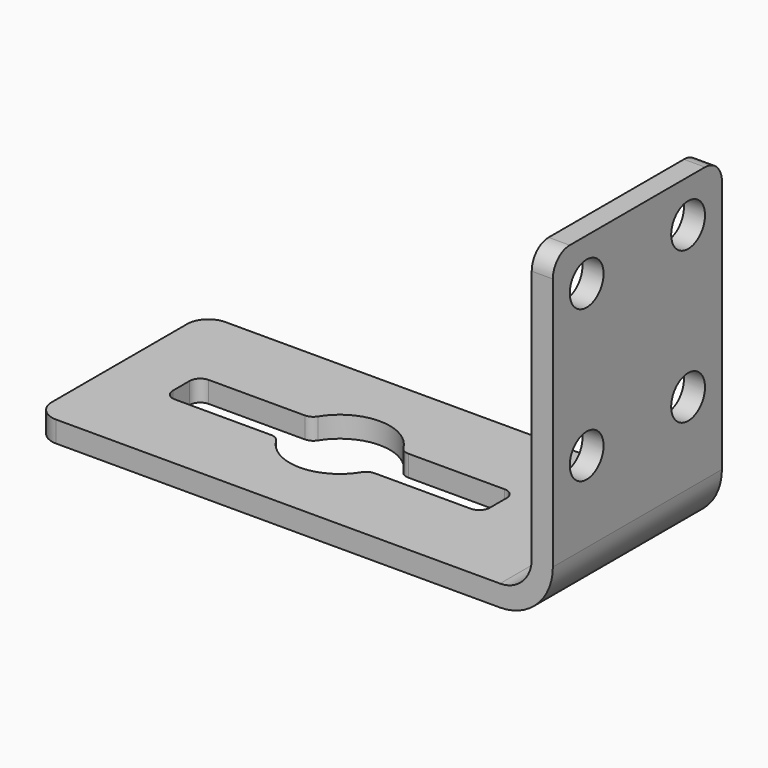
from build123d import *

# Parameters (mm, degrees)
F1_DEPTH = 254
F2_R     = 25.4
F4_DEPTH = 25.4
F5_R     = 12.7
F6_R     = 25.4
F7_DEPTH = 25.4


with BuildPart() as f1:
    # F0 (on Front) → F1 (new body)
    with BuildSketch(Plane.XZ):
        with BuildLine():
            Line((-558.8, -63.5), (0, -63.5))
            ThreePointArc((0, -63.5), (44.9012806053, -44.9012806053), (63.5, 0))
            Line((63.5, 0), (63.5, 330.2))
            Line((63.5, 330.2), (38.1, 330.2))
            Line((38.1, 330.2), (38.1, 0))
            ThreePointArc((38.1, 0), (26.9407683632, -26.9407683632), (0, -38.1))
            Line((0, -38.1), (-558.8, -38.1))
            Line((-558.8, -38.1), (-558.8, -63.5))
        make_face()
    extrude(amount=F1_DEPTH)

    # F2
    f2_edges = [f1.edges().sort_by_distance(p)[0] for p in [
        (50.8, 0, 330.2),
        (50.8, -254, 330.2),
        (-558.8, 0, -50.8),
        (-558.8, -254, -50.8),
    ]]
    fillet(f2_edges, radius=F2_R)

    # F3 (on face) → F4 (cut)
    with BuildSketch(Plane.XY.offset(-38.1)):
        with BuildLine():
            Line((-348.8516446213, -101.6), (-484.7166538239, -101.6))
            Line((-484.7166538239, -101.6), (-484.7166538239, -152.4))
            Line((-484.7166538239, -152.4), (-348.8516446213, -152.4))
            ThreePointArc((-348.8516446213, -152.4), (-354.4673153923, -127), (-348.8516446213, -101.6))
        make_face()
        with BuildLine():
            ThreePointArc((-239.5816630264, -101.6), (-294.2166538239, -66.7493384316), (-348.8516446213, -101.6))
            Line((-348.8516446213, -101.6), (-239.5816630264, -101.6))
        make_face()
        with BuildLine():
            Line((-239.5816630264, -101.6), (-348.8516446213, -101.6))
            ThreePointArc((-348.8516446213, -101.6), (-354.4673153923, -127), (-348.8516446213, -152.4))
            Line((-348.8516446213, -152.4), (-239.5816630264, -152.4))
            ThreePointArc((-239.5816630264, -152.4), (-235.3866590943, -140.0066882623), (-233.9659922554, -127))
            ThreePointArc((-233.9659922554, -127), (-235.3866590943, -113.9933117377), (-239.5816630264, -101.6))
        make_face()
        with BuildLine():
            Line((-103.7166538239, -101.6), (-239.5816630264, -101.6))
            ThreePointArc((-239.5816630264, -101.6), (-235.3866590943, -113.9933117377), (-233.9659922554, -127))
            ThreePointArc((-233.9659922554, -127), (-235.3866590943, -140.0066882623), (-239.5816630264, -152.4))
            Line((-239.5816630264, -152.4), (-103.7166538239, -152.4))
            Line((-103.7166538239, -152.4), (-103.7166538239, -101.6))
        make_face()
        with BuildLine():
            Line((-239.5816630264, -152.4), (-348.8516446213, -152.4))
            ThreePointArc((-348.8516446213, -152.4), (-294.2166538239, -187.2506615684), (-239.5816630264, -152.4))
        make_face()
    extrude(amount=-F4_DEPTH, mode=Mode.SUBTRACT)

    # F5
    f5_edges = [f1.edges().sort_by_distance(p)[0] for p in [
        (-484.716654, -101.6, -50.8),
        (-348.851645, -101.6, -50.8),
        (-484.716654, -152.4, -50.8),
        (-348.851645, -152.4, -50.8),
        (-239.581663, -152.4, -50.8),
        (-239.581663, -101.6, -50.8),
        (-103.716654, -152.4, -50.8),
        (-103.716654, -101.6, -50.8),
    ]]
    fillet(f5_edges, radius=F5_R)

    # F6 (on face) → F7 (cut)
    with BuildSketch(Plane.YZ.offset(63.5)):
        with Locations((-50.8, 279.4)):
            Circle(F6_R)
        with Locations((-203.2, 279.4)):
            Circle(F6_R)
        with Locations((-50.8, 97.3987299839)):
            Circle(F6_R)
        with Locations((-203.2, 97.3987299839)):
            Circle(F6_R)
    extrude(amount=-F7_DEPTH, mode=Mode.SUBTRACT)


solid = f1.part
